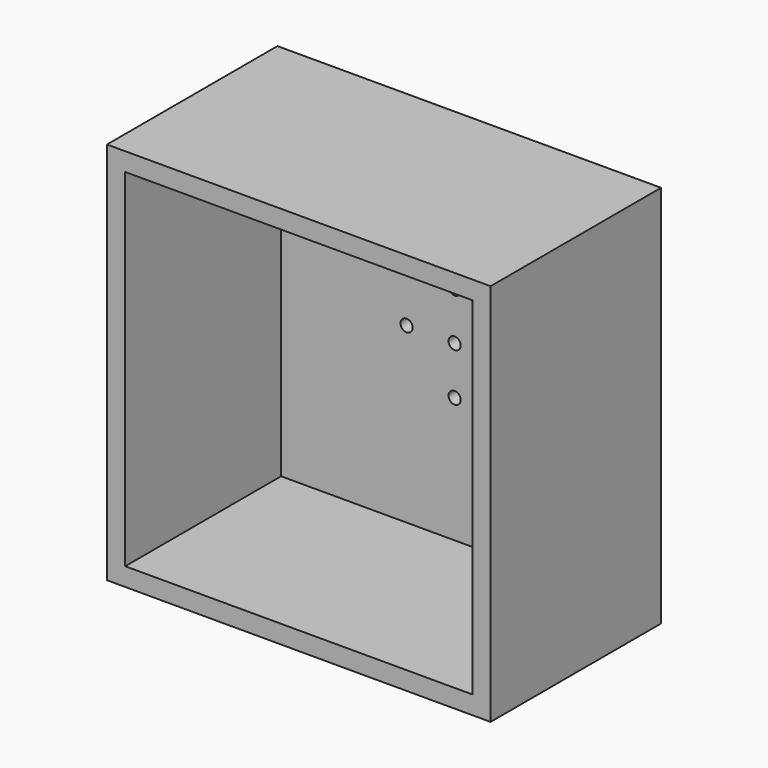
from build123d import *

# Parameters (mm, degrees)
F0_W     = 63
F0_H     = 63
F1_DEPTH = 35
F2_T     = -3
F4_R     = 1
F5_DEPTH = 25


with BuildPart() as f1:
    # F0 (on Front) → F1 (new body)
    with BuildSketch(Plane.XZ):
        Rectangle(F0_W, F0_H)
    extrude(amount=F1_DEPTH)

    # F2
    f2_openings = [f1.faces().sort_by_distance(p)[0] for p in [
        (0, -35, 0),
    ]]
    offset(amount=F2_T, openings=f2_openings)

    # F4 (on Front) → F5 (cut)
    with BuildSketch(Plane.XZ):
        with Locations((7.88837, 0)):
            Circle(F4_R)
        with Locations((-7.888372, 0)):
            Circle(F4_R)
        with Locations((0, 7.88837)):
            Circle(F4_R)
        with Locations((0, -7.88837)):
            Circle(F4_R)
        Circle(F4_R)
    extrude(amount=F5_DEPTH, mode=Mode.SUBTRACT)


solid = f1.part
